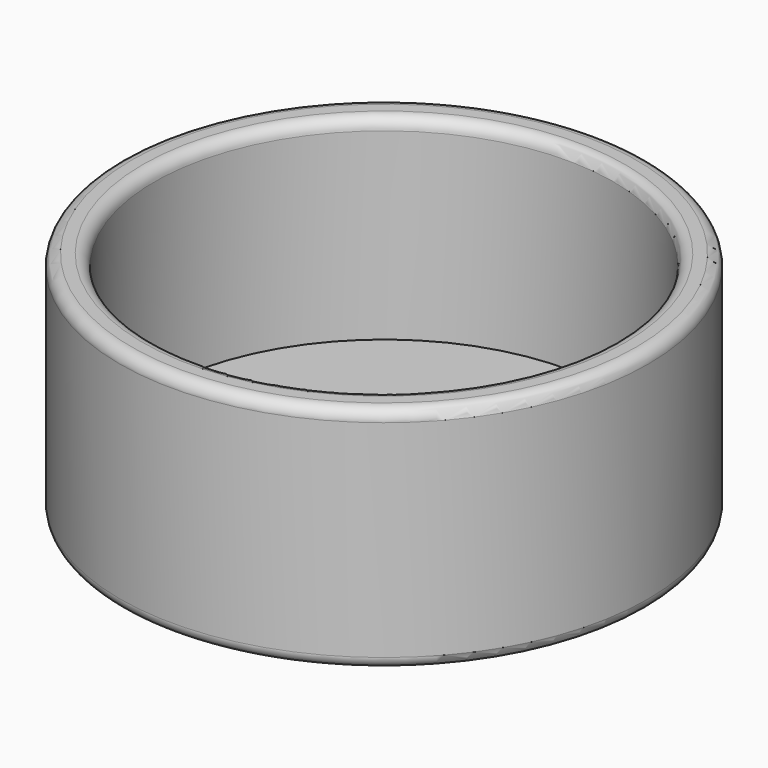
from build123d import *

# Parameters (mm, degrees)
F0_R     = 23
F0_R_2   = 20
F1_DEPTH = 20
F2_R     = 23
F3_DEPTH = 3
F4_R     = 1


with BuildPart() as f1:
    # F0 (on Top) → F1 (new body)
    with BuildSketch(Plane.XY):
        Circle(F0_R)
        Circle(F0_R_2, mode=Mode.SUBTRACT)
    extrude(amount=F1_DEPTH)

    # F2 (on Top) → F3 (join)
    with BuildSketch(Plane.XY):
        Circle(F2_R)
    extrude(amount=F3_DEPTH)

    # F4
    f4_edges = [f1.edges().sort_by_distance(p)[0] for p in [
        (-20, 0, 20),
        (-23, 0, 20),
        (-23, 0, 0),
    ]]
    fillet(f4_edges, radius=F4_R)


solid = f1.part
